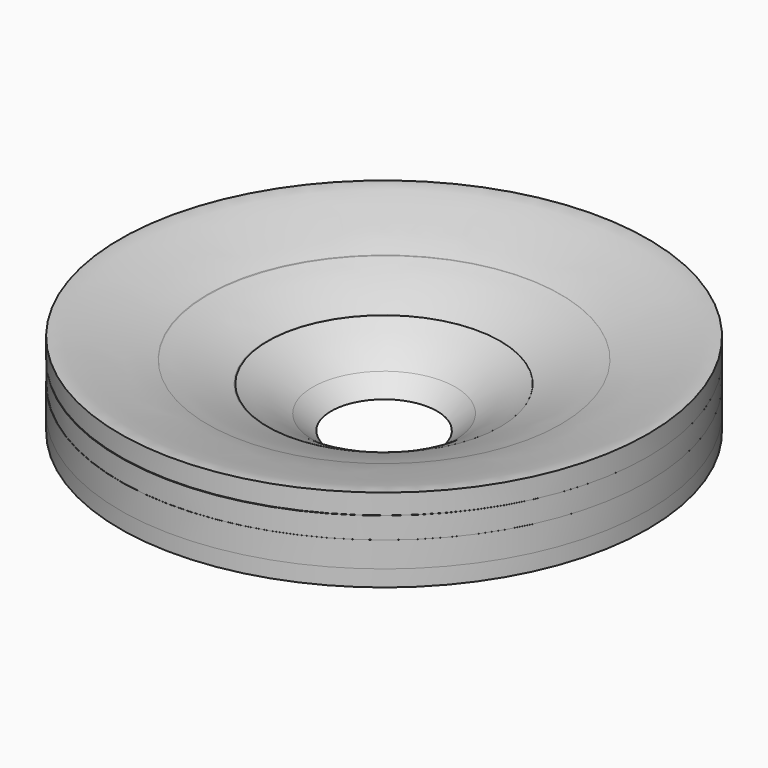
from build123d import *


with BuildPart() as f1:
    # F0 (on Front) → F1 (revolve)
    with BuildSketch(Plane.XZ):
        with BuildLine():
            add(Edge.make_bspline(
                [(15.7515468455, 1.5186385906), (16.2569814963, 1.959361021), (17.2846288696, 2.8554358099), (18.9526439694, 4.166854506), (20.3713483355, 5.3705503671), (21.0733665388, 5.9114203979), (21.2399935025, 6.0371666258)],
                knots=[0, 0, 0, 0, 0.0363510009, 0.0739086854, 0.112559803, 0.1251067413, 0.1251067413, 0.1251067413, 0.1251067413], degree=3))
            Line((15.7515468455, 1.5186385906), (78.5365324529, 1.318038129))
            Line((78.5365324529, 1.318038129), (78.5365324529, 6.1707655311))
            Line((78.5365324529, 6.1707655311), (21.2399935025, 6.0371666258))
        make_face()
    revolve(axis=Axis((0, 0, 16.4799756994), (0, 0, 1)))


with BuildPart() as f2:
    # F0 (on Front) → F2 (revolve)
    with BuildSketch(Plane.XZ):
        with BuildLine():
            add(Edge.make_bspline(
                [(21.2399935025, 6.0371666258), (21.5009112116, 6.234070038), (22.1342698046, 6.6949997973), (23.1310298936, 7.396516823), (24.8194929191, 8.4575455522), (25.7576037559, 9.2164833794), (29.1454642161, 11.0654940256), (31.8957072977, 12.37057363), (33.6465721386, 13.3169859548), (34.5826536048, 13.7466102251)],
                knots=[0.1251067413, 0.1251067413, 0.1251067413, 0.1251067413, 0.1447537319, 0.1753550601, 0.2105716651, 0.239375986, 0.2887628656, 0.3347946409, 0.3782386594, 0.3782386594, 0.3782386594, 0.3782386594], degree=3))
            Line((21.2399935025, 6.0371666258), (78.5365324529, 6.1707655311))
            Line((78.5365324529, 6.1707655311), (78.5365324529, 13.7466102251))
            Line((78.5365324529, 13.7466102251), (34.5826536048, 13.7466102251))
        make_face()
    revolve(axis=Axis((0, 0, 16.4799756994), (0, 0, 1)))


with BuildPart() as f3:
    # F0 (on Front) → F3 (revolve)
    with BuildSketch(Plane.XZ):
        with BuildLine():
            add(Edge.make_bspline(
                [(34.5826536048, 13.7466102251), (34.606915689, 13.7577455596), (35.6814873865, 14.2488728005), (38.048823558, 15.143884105), (41.4594226373, 16.4985573287), (45.4508659579, 18.1028686828), (49.3448973071, 19.2429844364), (51.5891441877, 19.9139420623), (52.4998004667, 20.2101180306)],
                knots=[0.3782386594, 0.3782386594, 0.3782386594, 0.3782386594, 0.3793646751, 0.4279916519, 0.4771807945, 0.5302968437, 0.5840070306, 0.6225372943, 0.6225372943, 0.6225372943, 0.6225372943], degree=3))
            Line((34.5826536048, 13.7466102251), (78.5365324529, 13.7466102251))
            Line((78.5365324529, 13.7466102251), (78.5365324529, 20.2101180306))
            Line((78.5365324529, 20.2101180306), (52.4998004667, 20.2101180306))
        make_face()
    revolve(axis=Axis((0.0349167788, 0, 16.4799756994), (-0.0023317035, 0, 0.9999972816)))


with BuildPart() as f4:
    # F0 (on Front) → F4 (revolve)
    with BuildSketch(Plane.XZ):
        with BuildLine():
            add(Edge.make_bspline(
                [(52.4998004667, 20.2101180306), (52.7666258691, 20.2968986017), (54.1648589641, 20.7628246645), (56.603471745, 21.7101812772), (60.2482012651, 22.3407375348), (62.771290046, 23.2311631143), (66.3751725962, 23.8129712703), (70.133277328, 24.8132282159), (73.3957067914, 25.7248775779), (76.803780903, 26.2492134197), (78.0301706551, 26.1968164211), (78.5365324529, 26.1751823212)],
                knots=[0.6225372943, 0.6225372943, 0.6225372943, 0.6225372943, 0.6338267932, 0.6822117186, 0.7308995857, 0.7727704857, 0.8213286443, 0.8719649813, 0.9198306396, 0.966899021, 1, 1, 1, 1], degree=3))
            Line((52.4998004667, 20.2101180306), (78.5365324529, 20.2101180306))
            Line((78.5365324529, 20.2101180306), (78.5365324529, 26.1751823212))
        make_face()
    revolve(axis=Axis((0, 0, 16.4799756994), (0, 0, 1)))


solid = Compound([f1.part, f2.part, f3.part, f4.part])
